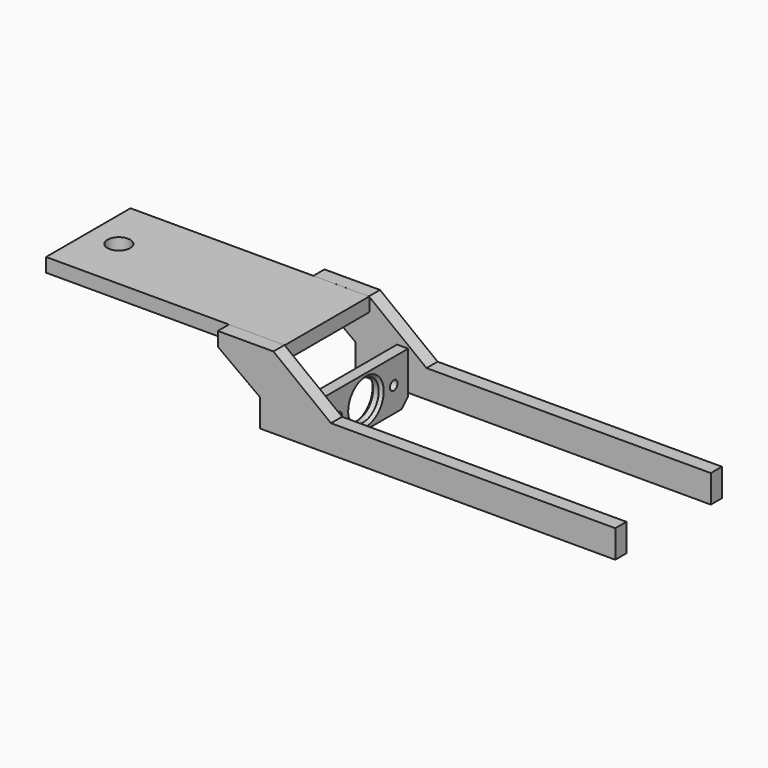
from build123d import *

# Parameters (mm, degrees)
EXTRUDE_DEPTH     = 5
EXTRUDE001_DEPTH  = 5
BOX054_W          = 128
BOX054_H          = 10
BOX054_DEPTH      = 5
BOX055_W          = 128
BOX055_H          = 10
BOX055_DEPTH      = 5
CYLINDER160_R     = 1.7
CYLINDER160_DEPTH = 4
CYLINDER161_R     = 1.7
CYLINDER161_DEPTH = 4
CYLINDER147_R     = 7
CYLINDER147_DEPTH = 4
BOX061_W          = 4
BOX061_H          = 38
BOX061_DEPTH      = 18
CHAMFER005_SIZE   = 1
CHAMFER006_SIZE   = 1
CYLINDER114_R     = 4.1
CYLINDER114_DEPTH = 10
TUBE_R            = 6
TUBE_R_2          = 4.5
TUBE_DEPTH        = 6
BOX053_W          = 86
BOX053_H          = 38
BOX053_DEPTH      = 5
CHAMFER007_SIZE   = 3


with BuildPart() as extrude_body:
    # Sketch → Extrude (new body)
    with BuildSketch(Plane.XZ):
        Polygon((132.822781, 16.830847), (111.859555, 33.003719), (91.859555, 33.003719), (91.859555, 28.003719), (107.162236, 16.830847), align=None)
    extrude(amount=EXTRUDE_DEPTH)


with BuildPart() as extrude_body_1:
    # Extrude placement: moved
    add(extrude_body.part.moved(Location((0, 4, 0))))


with BuildPart() as extrude001:
    # Sketch → Extrude001 (new body)
    with BuildSketch(Plane.XZ):
        Polygon((132.822781, 16.830847), (111.859555, 33.003719), (91.859555, 33.003719), (91.859555, 28.003719), (107.162236, 16.830847), align=None)
    extrude(amount=EXTRUDE001_DEPTH)


with BuildPart() as extrude001_1:
    # Extrude001 placement: moved
    add(extrude001.part.moved(Location((0, -39, 0))))


with BuildPart() as cube054:
    # Box054 → Box054 (new body)
    with BuildSketch(Plane(origin=(107, -39, 7), x_dir=(1, 0, 0), z_dir=(0, -1, 0))):
        with Locations((64, 5)):
            Rectangle(BOX054_W, BOX054_H)
    extrude(amount=BOX054_DEPTH)


with BuildPart() as cube055:
    # Box055 → Box055 (new body)
    with BuildSketch(Plane(origin=(107, 4, 7), x_dir=(1, 0, 0), z_dir=(0, -1, 0))):
        with Locations((64, 5)):
            Rectangle(BOX055_W, BOX055_H)
    extrude(amount=BOX055_DEPTH)


with BuildPart() as cylinder160:
    # Cylinder160 → Cylinder160 (new body)
    with BuildSketch(Plane(origin=(126, 0, 12), x_dir=(0, 0, 1), z_dir=(-1, 0, 0))):
        Circle(CYLINDER160_R)
    extrude(amount=CYLINDER160_DEPTH)


with BuildPart() as fusion:
    # Cylinder161 → Cylinder161 (new body)
    with BuildSketch(Plane(origin=(126, 25, 12), x_dir=(0, 0, 1), z_dir=(-1, 0, 0))):
        Circle(CYLINDER161_R)
    extrude(amount=CYLINDER161_DEPTH)

    # Fusion: union Cylinder160
    add(cylinder160.part)


with BuildPart() as fusion_1:
    # Fusion placement: moved
    add(fusion.part.moved(Location((0, -32.5, 0))))


with BuildPart() as cylinder147:
    # Cylinder147 → Cylinder147 (new body)
    with BuildSketch(Plane(origin=(122, -20, 12), x_dir=(0, 0, -1), z_dir=(1, 0, 0))):
        Circle(CYLINDER147_R)
    extrude(amount=CYLINDER147_DEPTH)


with BuildPart() as chamfer006:
    # Box061 → Box061 (new body)
    with BuildSketch(Plane(origin=(122, -39, 3), x_dir=(1, 0, 0), z_dir=(0, 0, 1))):
        with Locations((2, 19)):
            Rectangle(BOX061_W, BOX061_H)
    extrude(amount=BOX061_DEPTH)

    # Cut085: cut Cylinder147
    add(cylinder147.part, mode=Mode.SUBTRACT)

    # Cut088: cut Fusion
    add(fusion_1.part, mode=Mode.SUBTRACT)

    # Chamfer005
    chamfer005_edges = [chamfer006.edges().sort_by_distance(p)[0] for p in [
        (122, -7.5, 10.3),
        (122, -20, 19),
    ]]
    chamfer(chamfer005_edges, length=CHAMFER005_SIZE)

    # Chamfer006
    chamfer006_edges = [chamfer006.edges().sort_by_distance(p)[0] for p in [
        (126, -20, 19),
    ]]
    chamfer(chamfer006_edges, length=CHAMFER006_SIZE)


with BuildPart() as cylinder114:
    # Cylinder114 → Cylinder114 (new body)
    with BuildSketch(Plane(origin=(37, -20, 21), x_dir=(1, 0, 0), z_dir=(0, 0, 1))):
        Circle(CYLINDER114_R)
    extrude(amount=CYLINDER114_DEPTH)


with BuildPart() as tube:
    # Tube → Tube (new body)
    with BuildSketch(Plane(origin=(37, -20, 21), x_dir=(1, 0, 0), z_dir=(0, 0, 1))):
        Circle(TUBE_R)
        Circle(TUBE_R_2, mode=Mode.SUBTRACT)
    extrude(amount=TUBE_DEPTH)


with BuildPart() as chamfer007:
    # Box053 → Box053 (new body)
    with BuildSketch(Plane(origin=(26, -39, 22), x_dir=(1, 0, 0), z_dir=(0, 0, 1))):
        with Locations((43, 19)):
            Rectangle(BOX053_W, BOX053_H)
    extrude(amount=BOX053_DEPTH)

    # Fusion092: union Tube
    add(tube.part)

    # Cut073: cut Cylinder114
    add(cylinder114.part, mode=Mode.SUBTRACT)


with BuildPart() as chamfer007_1:
    # Cut073 placement: moved
    add(chamfer007.part.moved(Location((0, 0, 6))))

    # Fusion112: union Extrude body, Extrude001, Cube054, Cube055, Chamfer006
    add(extrude_body_1.part)
    add(extrude001_1.part)
    add(cube054.part)
    add(cube055.part)
    add(chamfer006.part)

    # Chamfer007
    chamfer007_edges = [chamfer007_1.edges().sort_by_distance(p)[0] for p in [
        (124, -1, 3),
        (124, -39, 3),
    ]]
    chamfer(chamfer007_edges, length=CHAMFER007_SIZE)


solid = chamfer007_1.part
